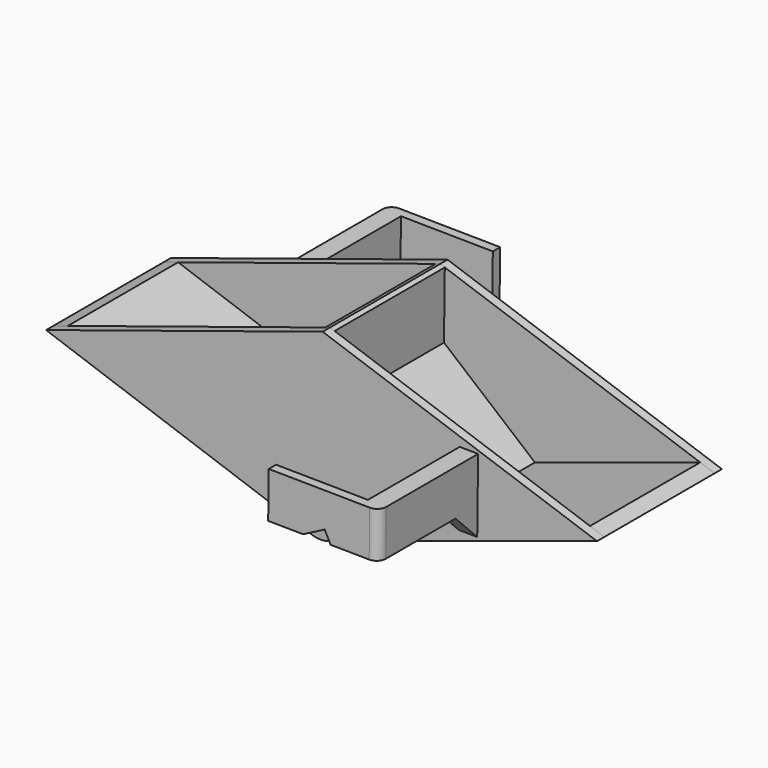
from build123d import *

# Parameters (mm, degrees)
PAD023_DEPTH        = 15
SKETCH047_R         = 1.4
POCKET020_DEPTH     = 15
PAD018_DEPTH        = 15
PAD020_DEPTH        = 1
PAD019_DEPTH        = 1
SKETCH049_R         = 1.4
POCKET023_DEPTH     = 17.001
PAD022_DEPTH        = 5
PAD021_DEPTH        = 5
CHAMFER009_SIZE     = 3
CHAMFER010_SIZE     = 3
FILLET014_R         = 1
FILLET013_R         = 1
POCKET022_DEPTH     = 1
POCKET021_DEPTH     = 1
BODY007_PITCH_ANGLE = 0.7


with BuildPart() as part:
    # Sketch051 → Pad023 (new body)
    with BuildSketch(Plane.XZ.offset(7.5)):
        with BuildLine():
            Line((0.962959, 0.158748), (30, 10))
            Line((30, 10), (28.432297, 10.524546))
            Line((28.432297, 10.524546), (10.5, 4.446921))
            Line((0, 13), (10.5, 4.446921))
            Line((0, 13), (-10.5, 4.446921))
            Line((-28.432297, 10.524546), (-10.5, 4.446921))
            Line((-30, 10), (-28.432297, 10.524546))
            Line((-0.962959, 0.158748), (-30, 10))
            ThreePointArc((-0.962959, 0.158748), (0, 0), (0.962959, 0.158748))
        make_face()
    extrude(amount=-PAD023_DEPTH)

    # Sketch047 → Pocket020 (cut)
    with BuildSketch(Plane.XZ.offset(7.5)):
        with Locations((0, 3)):
            Circle(SKETCH047_R)
    extrude(amount=-POCKET020_DEPTH, mode=Mode.SUBTRACT)

    # Sketch054 (on Face4 of Pocket020) → Pad018 (join)
    with BuildSketch(Plane.XZ.offset(7.5)):
        with BuildLine():
            Line((-0.5, 5.95804), (-0.5, 19.831731))
            Line((-0.5, 19.831731), (0, 20))
            Line((0, 20), (0.5, 19.831731))
            Line((0.5, 19.831731), (0.5, 5.95804))
            ThreePointArc((0.5, 5.95804), (0, 6), (-0.5, 5.95804))
        make_face()
    extrude(amount=-PAD018_DEPTH)

    # Sketch050 (on Face4 of Pad018) → Pad020 (join)
    with BuildSketch(Plane.XZ.offset(7.5)):
        with BuildLine():
            ThreePointArc((-0.962959, 0.158748), (0, 0), (0.962959, 0.158748))
            Line((30, 10), (0.962959, 0.158748))
            Line((0, 20), (30, 10))
            Line((-30, 10), (0, 20))
            Line((-0.962959, 0.158748), (-30, 10))
        make_face()
    extrude(amount=PAD020_DEPTH)

    # Sketch053 (on Face4 of Pad018) → Pad019 (join)
    with BuildSketch(Plane.XZ.offset(-7.5)):
        with BuildLine():
            ThreePointArc((-0.962959, 0.158748), (0, 0), (0.962959, 0.158748))
            Line((30, 10), (0.962959, 0.158748))
            Line((0, 20), (30, 10))
            Line((-30, 10), (0, 20))
            Line((-0.962959, 0.158748), (-30, 10))
        make_face()
    extrude(amount=-PAD019_DEPTH)

    # Sketch049 (on Face12 of Pad019) → Pocket023 (cut, through all)
    with BuildSketch(Plane.XZ.offset(8.5)):
        with Locations((0, 3)):
            Circle(SKETCH049_R)
    extrude(amount=-POCKET023_DEPTH, mode=Mode.SUBTRACT)

    # Sketch048 → Pad022 (join)
    with BuildSketch(Plane.XY.offset(9)):
        Polygon((5, -21), (5, -22), (17, -22), (17, -8.5), (15, -8.5), (15, -21), align=None)
    extrude(amount=PAD022_DEPTH)

    # Sketch055 → Pad021 (join)
    with BuildSketch(Plane(origin=(0, 0, 9), x_dir=(-1, 0, 0), z_dir=(0, 0, 1))):
        Polygon((5, -21), (5, -22), (17, -22), (17, -8.5), (15, -8.5), (15, -21), align=None)
    extrude(amount=PAD021_DEPTH)

    # Chamfer009
    chamfer009_edges = [part.edges().sort_by_distance(p)[0] for p in [
        (16, -8.5, 9),
    ]]
    chamfer(chamfer009_edges, length=CHAMFER009_SIZE)

    # Chamfer010
    chamfer010_edges = [part.edges().sort_by_distance(p)[0] for p in [
        (-16, 8.5, 9),
    ]]
    chamfer(chamfer010_edges, length=CHAMFER010_SIZE)

    # Fillet014
    fillet014_edges = [part.edges().sort_by_distance(p)[0] for p in [
        (17, -22, 11.5),
    ]]
    fillet(fillet014_edges, radius=FILLET014_R)

    # Fillet013
    fillet013_edges = [part.edges().sort_by_distance(p)[0] for p in [
        (-17, 22, 11.5),
    ]]
    fillet(fillet013_edges, radius=FILLET013_R)

    # Sketch056 (on Face52 of Fillet013) → Pocket022 (cut)
    with BuildSketch(Plane.XZ.offset(22)):
        Polygon((8.8, 9), (11.138789, 10.243556), (11.8, 9), align=None)
    extrude(amount=-POCKET022_DEPTH, mode=Mode.SUBTRACT)

    # Sketch052 (on Face7 of Pocket022) → Pocket021 (cut)
    with BuildSketch(Plane(origin=(0, 22, 0), x_dir=(1, 0, 0), z_dir=(0, 1, 0))):
        Polygon((-11.8, -9), (-11.138789, -10.243556), (-8.8, -9), align=None)
    extrude(amount=-POCKET021_DEPTH, mode=Mode.SUBTRACT)


with BuildPart() as part_1:
    # Body007 pitch: moved
    add(part.part.rotate(Axis((0, 0, 0), (0, 1, 0)), BODY007_PITCH_ANGLE))


with BuildPart() as part_2:
    # Body007 placement: moved
    add(part_1.part.moved(Location((-0.036651, 0, 0.000224))))


solid = part_2.part
